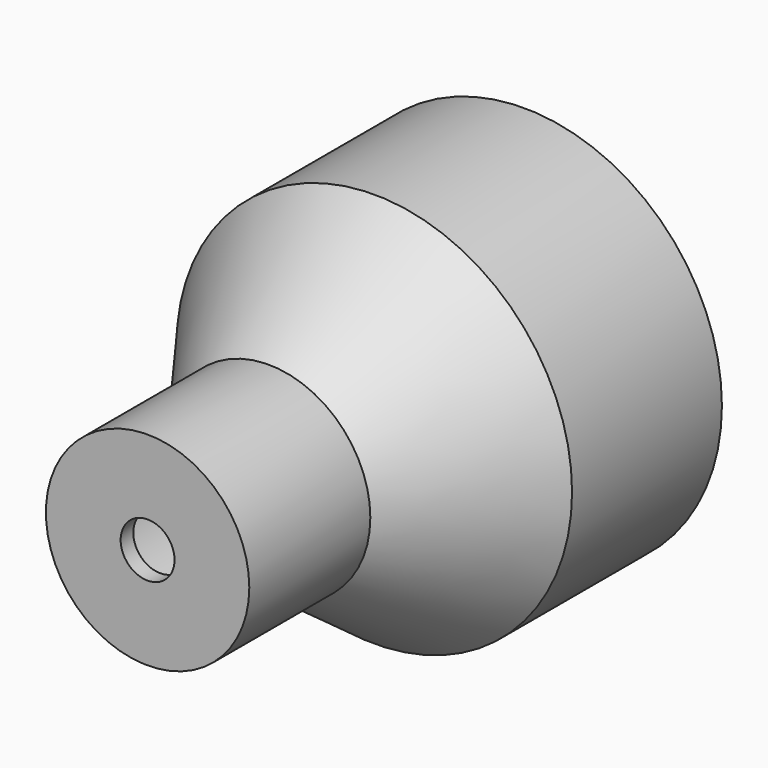
from build123d import *

# Parameters (mm, degrees)
F3_T     = -2.54
F2_R     = 4.327006367
F4_DEPTH = 75.5575296859


with BuildPart() as f1:
    # F0 (on Top) → F1 (revolve)
    with BuildSketch(Plane.XY):
        Polygon((0, 20.3673411161), (0, -55.1891885698), (16.3254532963, -55.1891885698), (16.3254532963, -30.9031605721), (31.7451581359, -9.701074101), (31.7451581359, 20.3673411161), align=None)
    revolve(axis=Axis((0, -6.6171362996, 0), (0, -1, 0)))

    # F3
    f3_openings = [f1.faces().sort_by_distance(p)[0] for p in [
        (0, 20.367341, 0),
    ]]
    offset(amount=F3_T, openings=f3_openings, kind=Kind.INTERSECTION)

    # F2 (on face) → F4 (cut, through all)
    with BuildSketch(Plane.XZ.offset(55.1891885698)):
        Circle(F2_R)
    extrude(amount=-F4_DEPTH, mode=Mode.SUBTRACT)


solid = f1.part
